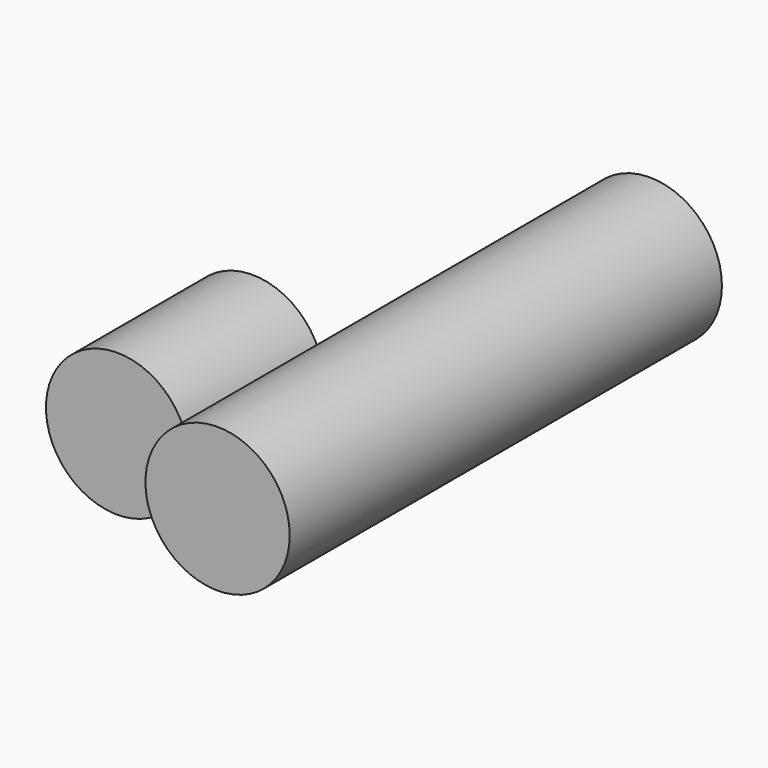
from build123d import *

# Parameters (mm, degrees)
F0_R     = 10.679085
F1_DEPTH = 40
F2_R     = 10.566235
F3_DEPTH = 12.5


with BuildPart() as f1:
    # F0 (on Front) → F1 (new body, symmetric)
    with BuildSketch(Plane.XZ):
        Circle(F0_R)
    extrude(amount=F1_DEPTH, both=True)


with BuildPart() as f3:
    # F2 (on Front) → F3 (new body, symmetric)
    with BuildSketch(Plane.XZ):
        with Locations((-36.846712, -13.385132)):
            Circle(F2_R)
    extrude(amount=F3_DEPTH, both=True)


solid = Compound([f1.part, f3.part])
